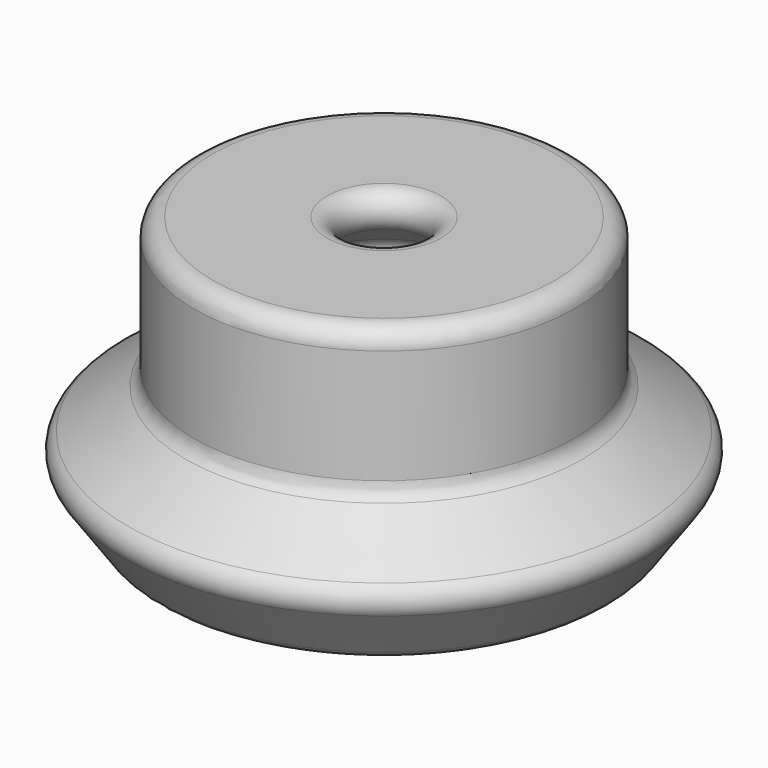
from build123d import *


with BuildPart() as f1:
    # F0 (on Front) → F1 (revolve)
    with BuildSketch(Plane.XZ):
        with BuildLine():
            Line((45, 0), (15, 0))
            ThreePointArc((15, 0), (10.256584, -3.418861), (12, -9))
            Line((12, -9), (22.243766, -16.682824))
            ThreePointArc((22.243766, -16.682824), (24.241681, -20.538447), (22.46967, -24.502974))
            Line((22.46967, -24.502974), (19.0741, -27.370344))
            ThreePointArc((19.0741, -27.370344), (17.430458, -30.055804), (17.717737, -33.191202))
            Line((17.717737, -33.191202), (25.720571, -51.520268))
            ThreePointArc((25.720571, -51.520268), (26.130367, -53.802604), (25.466472, -56.024367))
            Line((25.466472, -56.024367), (20.566168, -64.496609))
            ThreePointArc((20.566168, -64.496609), (20.56323, -69.498304), (24.894336, -72))
            Line((24.894336, -72), (55.075384, -72))
            ThreePointArc((55.075384, -72), (57.381827, -71.436251), (59.168167, -69.87213))
            Line((59.168167, -69.87213), (68.445437, -56.652026))
            ThreePointArc((68.445437, -56.652026), (69.277591, -52.916764), (67.224784, -49.687113))
            Line((67.224784, -49.687113), (52.12787, -39.092783))
            ThreePointArc((52.12787, -39.092783), (50.563749, -37.306442), (50, -35))
            Line((50, -35), (50, -5))
            ThreePointArc((50, -5), (48.535534, -1.464466), (45, 0))
        make_face()
    revolve(axis=Axis((0, 0, -0.946067), (0, 0, -1)))


solid = f1.part
